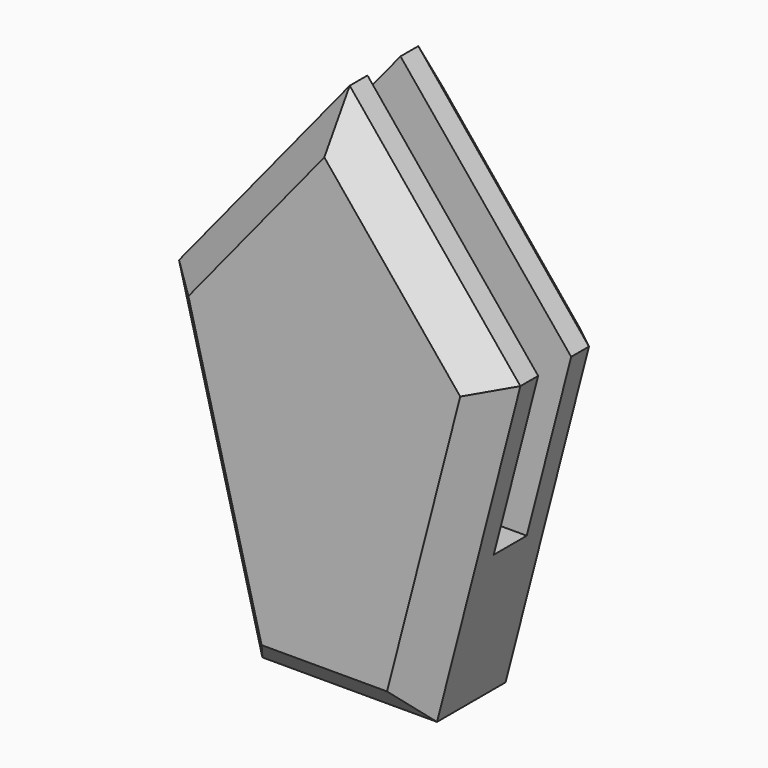
from build123d import *

# Parameters (mm, degrees)
F1_DEPTH = 4.7
F2_W     = 1.3
F2_H     = 12
F3_DEPTH = 10
F4_SIZE  = 1


with BuildPart() as f1:
    # F0 (on Front) → F1 (new body)
    with BuildSketch(Plane.XZ):
        Polygon((-5.37627, 10.166253), (-2.75, 0), (2.75, 0), (5.37627, 10.166253), (0, 16.75), align=None)
        Polygon((-5.37627, 10.166253), (-2.75, 0), (2.75, 0), (5.37627, 10.166253), (0, 16.75), align=None)
    extrude(amount=F1_DEPTH)

    # F2 (on Right) → F3 (cut, symmetric)
    with BuildSketch(Plane.YZ):
        with Locations((-2.35, 10.75)):
            Rectangle(F2_W, F2_H)
    extrude(amount=F3_DEPTH, both=True, mode=Mode.SUBTRACT)

    # F4
    f4_edges = [f1.edges().sort_by_distance(p)[0] for p in [
        (-4.063135, -4.7, 5.083127),
        (0, -4.7, 0),
        (4.063135, -4.7, 5.083127),
        (2.688135, -4.7, 13.458127),
        (-2.688135, -4.7, 13.458127),
        (-4.063135, 0, 5.083127),
        (0, 0, 0),
        (4.063135, 0, 5.083127),
        (2.688135, 0, 13.458127),
        (-2.688135, 0, 13.458127),
    ]]
    chamfer(f4_edges, length=F4_SIZE)


solid = f1.part
